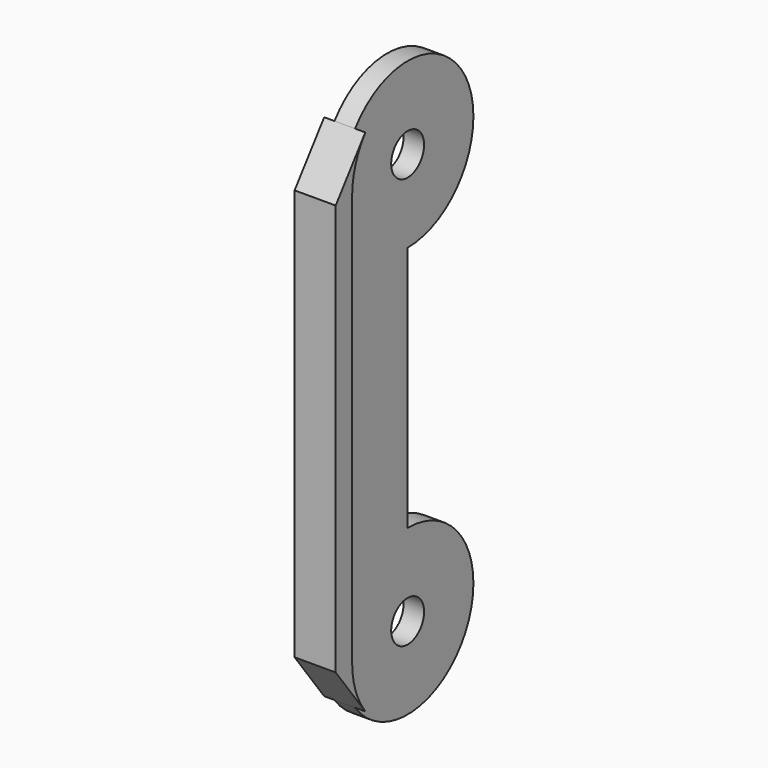
from build123d import *

# Parameters (mm, degrees)
F1_DEPTH = 2.5
F0_R     = 2.5
F2_DEPTH = 1.25


with BuildPart() as f1:
    # F0 (on Right) → F1 (new body, symmetric)
    with BuildSketch(Plane.YZ):
        with BuildLine():
            ThreePointArc((-10, 25), (-9.486833, 28.162278), (-8, 31))
            Line((-8, 31), (-12.5, 25))
            Line((-12.5, 25), (-12.5, -25))
            Line((-12.5, -25), (-8, -31))
            ThreePointArc((-8, -31), (-9.486833, -28.162278), (-10, -25))
            Line((-10, -25), (-10, 25))
        make_face()
    extrude(amount=F1_DEPTH, both=True)

    # F0 (on Right) → F2 (join, symmetric)
    with BuildSketch(Plane.YZ):
        with BuildLine():
            ThreePointArc((0, 15), (7.071068, 17.928932), (10, 25))
            ThreePointArc((10, 25), (3.162278, 34.486833), (-8, 31))
            ThreePointArc((-8, 31), (-9.486833, 28.162278), (-10, 25))
            ThreePointArc((-10, 25), (-7.071068, 17.928932), (0, 15))
        make_face()
        with Locations((0, 25)):
            Circle(F0_R, mode=Mode.SUBTRACT)
        with BuildLine():
            Line((0, -15), (0, 15))
            ThreePointArc((0, 15), (-7.071068, 17.928932), (-10, 25))
            Line((-10, 25), (-10, -25))
            ThreePointArc((-10, -25), (-7.071068, -17.928932), (0, -15))
        make_face()
        with BuildLine():
            ThreePointArc((10, -25), (7.071068, -17.928932), (0, -15))
            ThreePointArc((0, -15), (-7.071068, -17.928932), (-10, -25))
            ThreePointArc((-10, -25), (-9.486833, -28.162278), (-8, -31))
            ThreePointArc((-8, -31), (3.162278, -34.486833), (10, -25))
        make_face()
        with Locations((0, -25)):
            Circle(F0_R, mode=Mode.SUBTRACT)
    extrude(amount=F2_DEPTH, both=True)


solid = f1.part
